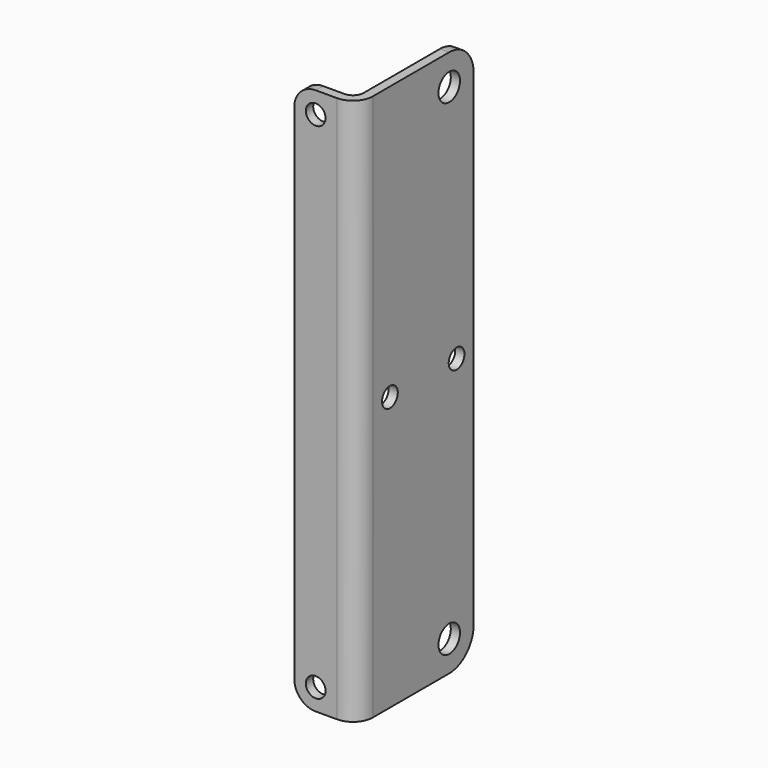
from build123d import *

# Parameters (mm, degrees)
F1_DEPTH = 101.6
F2_R     = 3.69316
F3_R     = 1.98374
F4_R     = 1.8288
F4_R_2   = 2.5
F5_DEPTH = 1.70942
F6_R     = 5.674995
F7_R     = 3.96875
F8_R     = 1.8288
F9_DEPTH = 1.70942


with BuildPart() as f1:
    # F0 (on Top) → F1 (new body)
    with BuildSketch(Plane.XY):
        Polygon((0, 25.4), (0, 0), (-9.92124, 0), (-9.92124, -1.70942), (1.70942, -1.70942), (1.70942, 25.4), align=None)
    extrude(amount=F1_DEPTH)

    # F2
    f2_edges = [f1.edges().sort_by_distance(p)[0] for p in [
        (1.70942, -1.70942, 50.8),
    ]]
    fillet(f2_edges, radius=F2_R)

    # F3
    f3_edges = [f1.edges().sort_by_distance(p)[0] for p in [
        (0, 0, 50.8),
    ]]
    fillet(f3_edges, radius=F3_R)

    # F4 (on face) → F5 (cut, through all)
    with BuildSketch(Plane.YZ.offset(1.70942)):
        with Locations((21.43125, 50.8)):
            Circle(F4_R)
        with Locations((5.95249, 50.8)):
            Circle(F4_R)
        with Locations((19.725, 95.925)):
            Circle(F4_R_2)
        with Locations((19.725, 5.675)):
            Circle(F4_R_2)
    extrude(amount=-F5_DEPTH, mode=Mode.SUBTRACT)

    # F6
    f6_edges = [f1.edges().sort_by_distance(p)[0] for p in [
        (0.85471, 25.4, 101.6),
        (0.85471, 25.4, 0),
    ]]
    fillet(f6_edges, radius=F6_R)

    # F7
    f7_edges = [f1.edges().sort_by_distance(p)[0] for p in [
        (-9.92124, -0.85471, 0),
        (-9.92124, -0.85471, 101.6),
    ]]
    fillet(f7_edges, radius=F7_R)

    # F8 (on face) → F9 (cut, through all)
    with BuildSketch(Plane.XZ.offset(1.70942)):
        with Locations((-5.95249, 97.63125)):
            Circle(F8_R)
        with Locations((-5.95249, 3.96875)):
            Circle(F8_R)
    extrude(amount=-F9_DEPTH, mode=Mode.SUBTRACT)


solid = f1.part
